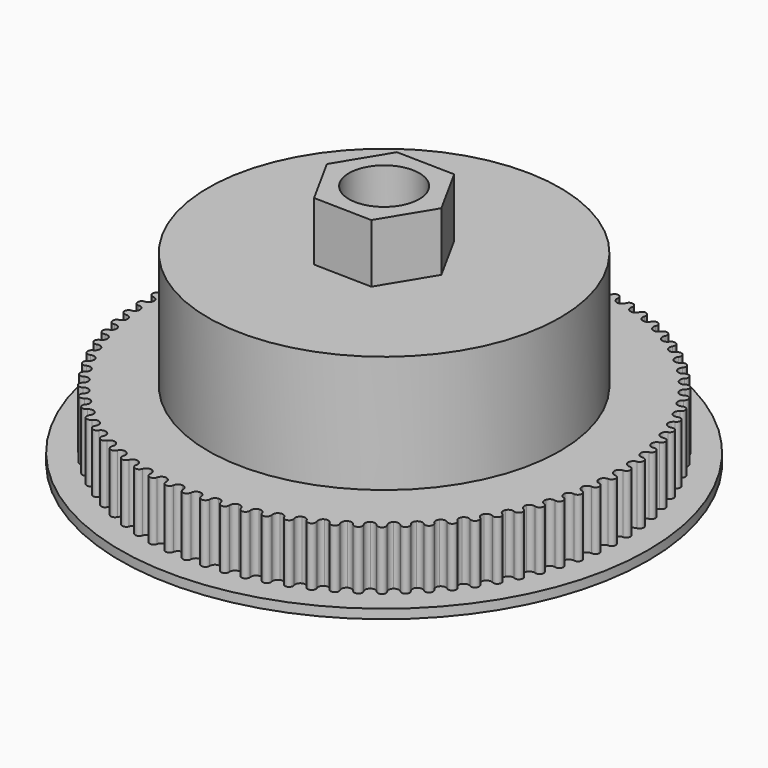
from build123d import *

# Parameters (mm, degrees)
F0_R      = 28.575
F1_DEPTH  = 1
F3_DEPTH  = 6.35
F4_R      = 19.05
F5_DEPTH  = 12.7
F7_DEPTH  = 6.35
F8_R      = 3.81
F9_DEPTH  = 30.734
F10_R     = 8.001
F11_DEPTH = 17.78


with BuildPart() as f1:
    # F0 (on Top) → F1 (new body)
    with BuildSketch(Plane.XY):
        Circle(F0_R)
    extrude(amount=F1_DEPTH)

    # F2 (on face) → F3 (join)
    with BuildSketch(Plane.XY.offset(1)):
        with BuildLine():
            ThreePointArc((0.554572, 25.441721), (0.384663, 25.063436), (0, 24.90851))
            ThreePointArc((0, 24.90851), (-0.384663, 25.063436), (-0.554572, 25.441721))
            ThreePointArc((-0.554572, 25.441721), (-1.016381, 25.868612), (-1.443272, 25.406804))
            ThreePointArc((-1.443272, 25.406804), (-1.582977, 25.016354), (-1.954299, 24.831725))
            ThreePointArc((-1.954299, 24.831725), (-2.349932, 24.955994), (-2.548997, 25.319781))
            ThreePointArc((-2.548997, 25.319781), (-3.042875, 25.709124), (-3.432218, 25.215245))
            ThreePointArc((-3.432218, 25.215245), (-3.540858, 24.815038), (-3.896549, 24.601845))
            ThreePointArc((-3.896549, 24.601845), (-4.300713, 24.694689), (-4.527706, 25.041737))
            ThreePointArc((-4.527706, 25.041737), (-5.05061, 25.39113), (-5.400003, 24.868226))
            ThreePointArc((-5.400003, 24.868226), (-5.476908, 24.460729), (-5.814776, 24.220286))
            ThreePointArc((-5.814776, 24.220286), (-6.224978, 24.281134), (-6.478501, 24.609302))
            ThreePointArc((-6.478501, 24.609302), (-7.027205, 24.916591), (-7.334495, 24.367887))
            ThreePointArc((-7.334495, 24.367887), (-7.379191, 23.955612), (-7.697153, 23.689401))
            ThreePointArc((-7.697153, 23.689401), (-8.110864, 23.717877), (-8.389354, 24.025142))
            ThreePointArc((-8.389354, 24.025142), (-8.960476, 24.288433), (-9.223767, 23.717311))
            ThreePointArc((-9.223767, 23.717311), (-9.235979, 23.3028), (-9.532074, 23.012463))
            ThreePointArc((-9.532074, 23.012463), (-9.946745, 23.008391), (-10.248483, 23.29286))
            ThreePointArc((-10.248483, 23.29286), (-10.838502, 23.510529), (-11.056172, 22.92051))
            ThreePointArc((-11.056172, 22.92051), (-11.035824, 22.506319), (-11.308227, 22.193645))
            ThreePointArc((-11.308227, 22.193645), (-11.7213, 22.157052), (-12.044427, 22.416969))
            ThreePointArc((-12.044427, 22.416969), (-12.649706, 22.587675), (-12.820412, 21.982396))
            ThreePointArc((-12.820412, 21.982396), (-12.76763, 21.571079), (-13.014661, 21.237996))
            ThreePointArc((-13.014661, 21.237996), (-13.423589, 21.169106), (-13.766113, 21.40287))
            ThreePointArc((-13.766113, 21.40287), (-14.38292, 21.52556), (-14.50561, 20.908754))
            ThreePointArc((-14.50561, 20.908754), (-14.420719, 20.502845), (-14.640855, 20.151408))
            ThreePointArc((-14.640855, 20.151408), (-15.043117, 20.050646), (-15.402927, 20.256815))
            ThreePointArc((-15.402927, 20.256815), (-16.027458, 20.330733), (-16.101376, 19.706202))
            ThreePointArc((-16.101376, 19.706202), (-15.984899, 19.308205), (-16.176783, 18.94058))
            ThreePointArc((-16.176783, 18.94058), (-16.5699, 18.808567), (-16.944776, 18.98587))
            ThreePointArc((-16.944776, 18.98587), (-17.573181, 19.010561), (-17.597872, 18.382155))
            ThreePointArc((-17.597872, 18.382155), (-17.450528, 17.994524), (-17.612976, 17.612976))
            ThreePointArc((-17.612976, 17.612976), (-17.994524, 17.450528), (-18.382155, 17.597872))
            ThreePointArc((-18.382155, 17.597872), (-19.010561, 17.573181), (-18.98587, 16.944776))
            ThreePointArc((-18.98587, 16.944776), (-18.808567, 16.5699), (-18.94058, 16.176783))
            ThreePointArc((-18.94058, 16.176783), (-19.308205, 15.984899), (-19.706202, 16.101376))
            ThreePointArc((-19.706202, 16.101376), (-20.330733, 16.027458), (-20.256815, 15.402927))
            ThreePointArc((-20.256815, 15.402927), (-20.050646, 15.043117), (-20.151408, 14.640855))
            ThreePointArc((-20.151408, 14.640855), (-20.502845, 14.420719), (-20.908754, 14.50561))
            ThreePointArc((-20.908754, 14.50561), (-21.52556, 14.38292), (-21.40287, 13.766113))
            ThreePointArc((-21.40287, 13.766113), (-21.169106, 13.423589), (-21.237996, 13.014661))
            ThreePointArc((-21.237996, 13.014661), (-21.571079, 12.76763), (-21.982396, 12.820412))
            ThreePointArc((-21.982396, 12.820412), (-22.587675, 12.649706), (-22.416969, 12.044427))
            ThreePointArc((-22.416969, 12.044427), (-22.157052, 11.7213), (-22.193645, 11.308227))
            ThreePointArc((-22.193645, 11.308227), (-22.506319, 11.035824), (-22.92051, 11.056172))
            ThreePointArc((-22.92051, 11.056172), (-23.510529, 10.838502), (-23.29286, 10.248483))
            ThreePointArc((-23.29286, 10.248483), (-23.008391, 9.946745), (-23.012463, 9.532074))
            ThreePointArc((-23.012463, 9.532074), (-23.3028, 9.235979), (-23.717311, 9.223767))
            ThreePointArc((-23.717311, 9.223767), (-24.288433, 8.960476), (-24.025142, 8.389354))
            ThreePointArc((-24.025142, 8.389354), (-23.717877, 8.110864), (-23.689401, 7.697153))
            ThreePointArc((-23.689401, 7.697153), (-23.955612, 7.379191), (-24.367887, 7.334495))
            ThreePointArc((-24.367887, 7.334495), (-24.916591, 7.027205), (-24.609302, 6.478501))
            ThreePointArc((-24.609302, 6.478501), (-24.281134, 6.224978), (-24.220286, 5.814776))
            ThreePointArc((-24.220286, 5.814776), (-24.460729, 5.476908), (-24.868226, 5.400003))
            ThreePointArc((-24.868226, 5.400003), (-25.39113, 5.05061), (-25.041737, 4.527706))
            ThreePointArc((-25.041737, 4.527706), (-24.694689, 4.300713), (-24.601845, 3.896549))
            ThreePointArc((-24.601845, 3.896549), (-24.815038, 3.540858), (-25.215245, 3.432218))
            ThreePointArc((-25.215245, 3.432218), (-25.709124, 3.042875), (-25.319781, 2.548997))
            ThreePointArc((-25.319781, 2.548997), (-24.955994, 2.349932), (-24.831725, 1.954299))
            ThreePointArc((-24.831725, 1.954299), (-25.016354, 1.582977), (-25.406804, 1.443272))
            ThreePointArc((-25.406804, 1.443272), (-25.868612, 1.016381), (-25.441721, 0.554572))
            ThreePointArc((-25.441721, 0.554572), (-25.063436, 0.384663), (-24.90851, 0))
            ThreePointArc((-24.90851, 0), (-25.063436, -0.384663), (-25.441721, -0.554572))
            ThreePointArc((-25.441721, -0.554572), (-25.868612, -1.016381), (-25.406804, -1.443272))
            ThreePointArc((-25.406804, -1.443272), (-25.016354, -1.582977), (-24.831725, -1.954299))
            ThreePointArc((-24.831725, -1.954299), (-24.955994, -2.349932), (-25.319781, -2.548997))
            ThreePointArc((-25.319781, -2.548997), (-25.709124, -3.042875), (-25.215245, -3.432218))
            ThreePointArc((-25.215245, -3.432218), (-24.815038, -3.540858), (-24.601845, -3.896549))
            ThreePointArc((-24.601845, -3.896549), (-24.694689, -4.300713), (-25.041737, -4.527706))
            ThreePointArc((-25.041737, -4.527706), (-25.39113, -5.05061), (-24.868226, -5.400003))
            ThreePointArc((-24.868226, -5.400003), (-24.460729, -5.476908), (-24.220286, -5.814776))
            ThreePointArc((-24.220286, -5.814776), (-24.281134, -6.224978), (-24.609302, -6.478501))
            ThreePointArc((-24.609302, -6.478501), (-24.916591, -7.027205), (-24.367887, -7.334495))
            ThreePointArc((-24.367887, -7.334495), (-23.955612, -7.379191), (-23.689401, -7.697153))
            ThreePointArc((-23.689401, -7.697153), (-23.717877, -8.110864), (-24.025142, -8.389354))
            ThreePointArc((-24.025142, -8.389354), (-24.288433, -8.960476), (-23.717311, -9.223767))
            ThreePointArc((-23.717311, -9.223767), (-23.3028, -9.235979), (-23.012463, -9.532074))
            ThreePointArc((-23.012463, -9.532074), (-23.008391, -9.946745), (-23.29286, -10.248483))
            ThreePointArc((-23.29286, -10.248483), (-23.510529, -10.838502), (-22.92051, -11.056172))
            ThreePointArc((-22.92051, -11.056172), (-22.506319, -11.035824), (-22.193645, -11.308227))
            ThreePointArc((-22.193645, -11.308227), (-22.157052, -11.7213), (-22.416969, -12.044427))
            ThreePointArc((-22.416969, -12.044427), (-22.587675, -12.649706), (-21.982396, -12.820412))
            ThreePointArc((-21.982396, -12.820412), (-21.571079, -12.76763), (-21.237996, -13.014661))
            ThreePointArc((-21.237996, -13.014661), (-21.169106, -13.423589), (-21.40287, -13.766113))
            ThreePointArc((-21.40287, -13.766113), (-21.52556, -14.38292), (-20.908754, -14.50561))
            ThreePointArc((-20.908754, -14.50561), (-20.502845, -14.420719), (-20.151408, -14.640855))
            ThreePointArc((-20.151408, -14.640855), (-20.050646, -15.043117), (-20.256815, -15.402927))
            ThreePointArc((-20.256815, -15.402927), (-20.330733, -16.027458), (-19.706202, -16.101376))
            ThreePointArc((-19.706202, -16.101376), (-19.308205, -15.984899), (-18.94058, -16.176783))
            ThreePointArc((-18.94058, -16.176783), (-18.808567, -16.5699), (-18.98587, -16.944776))
            ThreePointArc((-18.98587, -16.944776), (-19.010561, -17.573181), (-18.382155, -17.597872))
            ThreePointArc((-18.382155, -17.597872), (-17.994524, -17.450528), (-17.612976, -17.612976))
            ThreePointArc((-17.612976, -17.612976), (-17.450528, -17.994524), (-17.597872, -18.382155))
            ThreePointArc((-17.597872, -18.382155), (-17.573181, -19.010561), (-16.944776, -18.98587))
            ThreePointArc((-16.944776, -18.98587), (-16.5699, -18.808567), (-16.176783, -18.94058))
            ThreePointArc((-16.176783, -18.94058), (-15.984899, -19.308205), (-16.101376, -19.706202))
            ThreePointArc((-16.101376, -19.706202), (-16.027458, -20.330733), (-15.402927, -20.256815))
            ThreePointArc((-15.402927, -20.256815), (-15.043117, -20.050646), (-14.640855, -20.151408))
            ThreePointArc((-14.640855, -20.151408), (-14.420719, -20.502845), (-14.50561, -20.908754))
            ThreePointArc((-14.50561, -20.908754), (-14.38292, -21.52556), (-13.766113, -21.40287))
            ThreePointArc((-13.766113, -21.40287), (-13.423589, -21.169106), (-13.014661, -21.237996))
            ThreePointArc((-13.014661, -21.237996), (-12.76763, -21.571079), (-12.820412, -21.982396))
            ThreePointArc((-12.820412, -21.982396), (-12.649706, -22.587675), (-12.044427, -22.416969))
            ThreePointArc((-12.044427, -22.416969), (-11.7213, -22.157052), (-11.308227, -22.193645))
            ThreePointArc((-11.308227, -22.193645), (-11.035824, -22.506319), (-11.056172, -22.92051))
            ThreePointArc((-11.056172, -22.92051), (-10.838502, -23.510529), (-10.248483, -23.29286))
            ThreePointArc((-10.248483, -23.29286), (-9.946745, -23.008391), (-9.532074, -23.012463))
            ThreePointArc((-9.532074, -23.012463), (-9.235979, -23.3028), (-9.223767, -23.717311))
            ThreePointArc((-9.223767, -23.717311), (-8.960476, -24.288433), (-8.389354, -24.025142))
            ThreePointArc((-8.389354, -24.025142), (-8.110864, -23.717877), (-7.697153, -23.689401))
            ThreePointArc((-7.697153, -23.689401), (-7.379191, -23.955612), (-7.334495, -24.367887))
            ThreePointArc((-7.334495, -24.367887), (-7.027205, -24.916591), (-6.478501, -24.609302))
            ThreePointArc((-6.478501, -24.609302), (-6.224978, -24.281134), (-5.814776, -24.220286))
            ThreePointArc((-5.814776, -24.220286), (-5.476908, -24.460729), (-5.400003, -24.868226))
            ThreePointArc((-5.400003, -24.868226), (-5.05061, -25.39113), (-4.527706, -25.041737))
            ThreePointArc((-4.527706, -25.041737), (-4.300713, -24.694689), (-3.896549, -24.601845))
            ThreePointArc((-3.896549, -24.601845), (-3.540858, -24.815038), (-3.432218, -25.215245))
            ThreePointArc((-3.432218, -25.215245), (-3.042875, -25.709124), (-2.548997, -25.319781))
            ThreePointArc((-2.548997, -25.319781), (-2.349932, -24.955994), (-1.954299, -24.831725))
            ThreePointArc((-1.954299, -24.831725), (-1.582977, -25.016354), (-1.443272, -25.406804))
            ThreePointArc((-1.443272, -25.406804), (-1.016381, -25.868612), (-0.554572, -25.441721))
            ThreePointArc((-0.554572, -25.441721), (-0.384663, -25.063436), (0, -24.90851))
            ThreePointArc((0, -24.90851), (0.384663, -25.063436), (0.554572, -25.441721))
            ThreePointArc((0.554572, -25.441721), (1.016381, -25.868612), (1.443272, -25.406804))
            ThreePointArc((1.443272, -25.406804), (1.582977, -25.016354), (1.954299, -24.831725))
            ThreePointArc((1.954299, -24.831725), (2.349932, -24.955994), (2.548997, -25.319781))
            ThreePointArc((2.548997, -25.319781), (3.042875, -25.709124), (3.432218, -25.215245))
            ThreePointArc((3.432218, -25.215245), (3.540858, -24.815038), (3.896549, -24.601845))
            ThreePointArc((3.896549, -24.601845), (4.300713, -24.694689), (4.527706, -25.041737))
            ThreePointArc((4.527706, -25.041737), (5.05061, -25.39113), (5.400003, -24.868226))
            ThreePointArc((5.400003, -24.868226), (5.476908, -24.460729), (5.814776, -24.220286))
            ThreePointArc((5.814776, -24.220286), (6.224978, -24.281134), (6.478501, -24.609302))
            ThreePointArc((6.478501, -24.609302), (7.027205, -24.916591), (7.334495, -24.367887))
            ThreePointArc((7.334495, -24.367887), (7.379191, -23.955612), (7.697153, -23.689401))
            ThreePointArc((7.697153, -23.689401), (8.110864, -23.717877), (8.389354, -24.025142))
            ThreePointArc((8.389354, -24.025142), (8.960476, -24.288433), (9.223767, -23.717311))
            ThreePointArc((9.223767, -23.717311), (9.235979, -23.3028), (9.532074, -23.012463))
            ThreePointArc((9.532074, -23.012463), (9.946745, -23.008391), (10.248483, -23.29286))
            ThreePointArc((10.248483, -23.29286), (10.838502, -23.510529), (11.056172, -22.92051))
            ThreePointArc((11.056172, -22.92051), (11.035824, -22.506319), (11.308227, -22.193645))
            ThreePointArc((11.308227, -22.193645), (11.7213, -22.157052), (12.044427, -22.416969))
            ThreePointArc((12.044427, -22.416969), (12.649706, -22.587675), (12.820412, -21.982396))
            ThreePointArc((12.820412, -21.982396), (12.76763, -21.571079), (13.014661, -21.237996))
            ThreePointArc((13.014661, -21.237996), (13.423589, -21.169106), (13.766113, -21.40287))
            ThreePointArc((13.766113, -21.40287), (14.38292, -21.52556), (14.50561, -20.908754))
            ThreePointArc((14.50561, -20.908754), (14.420719, -20.502845), (14.640855, -20.151408))
            ThreePointArc((14.640855, -20.151408), (15.043117, -20.050646), (15.402927, -20.256815))
            ThreePointArc((15.402927, -20.256815), (16.027458, -20.330733), (16.101376, -19.706202))
            ThreePointArc((16.101376, -19.706202), (15.984899, -19.308205), (16.176783, -18.94058))
            ThreePointArc((16.176783, -18.94058), (16.5699, -18.808567), (16.944776, -18.98587))
            ThreePointArc((16.944776, -18.98587), (17.573181, -19.010561), (17.597872, -18.382155))
            ThreePointArc((17.597872, -18.382155), (17.450528, -17.994524), (17.612976, -17.612976))
            ThreePointArc((17.612976, -17.612976), (17.994524, -17.450528), (18.382155, -17.597872))
            ThreePointArc((18.382155, -17.597872), (19.010561, -17.573181), (18.98587, -16.944776))
            ThreePointArc((18.98587, -16.944776), (18.808567, -16.5699), (18.94058, -16.176783))
            ThreePointArc((18.94058, -16.176783), (19.308205, -15.984899), (19.706202, -16.101376))
            ThreePointArc((19.706202, -16.101376), (20.330733, -16.027458), (20.256815, -15.402927))
            ThreePointArc((20.256815, -15.402927), (20.050646, -15.043117), (20.151408, -14.640855))
            ThreePointArc((20.151408, -14.640855), (20.502845, -14.420719), (20.908754, -14.50561))
            ThreePointArc((20.908754, -14.50561), (21.52556, -14.38292), (21.40287, -13.766113))
            ThreePointArc((21.40287, -13.766113), (21.169106, -13.423589), (21.237996, -13.014661))
            ThreePointArc((21.237996, -13.014661), (21.571079, -12.76763), (21.982396, -12.820412))
            ThreePointArc((21.982396, -12.820412), (22.587675, -12.649706), (22.416969, -12.044427))
            ThreePointArc((22.416969, -12.044427), (22.157052, -11.7213), (22.193645, -11.308227))
            ThreePointArc((22.193645, -11.308227), (22.506319, -11.035824), (22.92051, -11.056172))
            ThreePointArc((22.92051, -11.056172), (23.510529, -10.838502), (23.29286, -10.248483))
            ThreePointArc((23.29286, -10.248483), (23.008391, -9.946745), (23.012463, -9.532074))
            ThreePointArc((23.012463, -9.532074), (23.3028, -9.235979), (23.717311, -9.223767))
            ThreePointArc((23.717311, -9.223767), (24.288433, -8.960476), (24.025142, -8.389354))
            ThreePointArc((24.025142, -8.389354), (23.717877, -8.110864), (23.689401, -7.697153))
            ThreePointArc((23.689401, -7.697153), (23.955612, -7.379191), (24.367887, -7.334495))
            ThreePointArc((24.367887, -7.334495), (24.916591, -7.027205), (24.609302, -6.478501))
            ThreePointArc((24.609302, -6.478501), (24.281134, -6.224978), (24.220286, -5.814776))
            ThreePointArc((24.220286, -5.814776), (24.460729, -5.476908), (24.868226, -5.400003))
            ThreePointArc((24.868226, -5.400003), (25.39113, -5.05061), (25.041737, -4.527706))
            ThreePointArc((25.041737, -4.527706), (24.694689, -4.300713), (24.601845, -3.896549))
            ThreePointArc((24.601845, -3.896549), (24.815038, -3.540858), (25.215245, -3.432218))
            ThreePointArc((25.215245, -3.432218), (25.709124, -3.042875), (25.319781, -2.548997))
            ThreePointArc((25.319781, -2.548997), (24.955994, -2.349932), (24.831725, -1.954299))
            ThreePointArc((24.831725, -1.954299), (25.016354, -1.582977), (25.406804, -1.443272))
            ThreePointArc((25.406804, -1.443272), (25.868612, -1.016381), (25.441721, -0.554572))
            ThreePointArc((25.441721, -0.554572), (25.063436, -0.384663), (24.90851, 0))
            ThreePointArc((24.90851, 0), (25.063436, 0.384663), (25.441721, 0.554572))
            ThreePointArc((25.441721, 0.554572), (25.868612, 1.016381), (25.406804, 1.443272))
            ThreePointArc((25.406804, 1.443272), (25.016354, 1.582977), (24.831725, 1.954299))
            ThreePointArc((24.831725, 1.954299), (24.955994, 2.349932), (25.319781, 2.548997))
            ThreePointArc((25.319781, 2.548997), (25.709124, 3.042875), (25.215245, 3.432218))
            ThreePointArc((25.215245, 3.432218), (24.815038, 3.540858), (24.601845, 3.896549))
            ThreePointArc((24.601845, 3.896549), (24.694689, 4.300713), (25.041737, 4.527706))
            ThreePointArc((25.041737, 4.527706), (25.39113, 5.05061), (24.868226, 5.400003))
            ThreePointArc((24.868226, 5.400003), (24.460729, 5.476908), (24.220286, 5.814776))
            ThreePointArc((24.220286, 5.814776), (24.281134, 6.224978), (24.609302, 6.478501))
            ThreePointArc((24.609302, 6.478501), (24.916591, 7.027205), (24.367887, 7.334495))
            ThreePointArc((24.367887, 7.334495), (23.955612, 7.379191), (23.689401, 7.697153))
            ThreePointArc((23.689401, 7.697153), (23.717877, 8.110864), (24.025142, 8.389354))
            ThreePointArc((24.025142, 8.389354), (24.288433, 8.960476), (23.717311, 9.223767))
            ThreePointArc((23.717311, 9.223767), (23.3028, 9.235979), (23.012463, 9.532074))
            ThreePointArc((23.012463, 9.532074), (23.008391, 9.946745), (23.29286, 10.248483))
            ThreePointArc((23.29286, 10.248483), (23.510529, 10.838502), (22.92051, 11.056172))
            ThreePointArc((22.92051, 11.056172), (22.506319, 11.035824), (22.193645, 11.308227))
            ThreePointArc((22.193645, 11.308227), (22.157052, 11.7213), (22.416969, 12.044427))
            ThreePointArc((22.416969, 12.044427), (22.587675, 12.649706), (21.982396, 12.820412))
            ThreePointArc((21.982396, 12.820412), (21.571079, 12.76763), (21.237996, 13.014661))
            ThreePointArc((21.237996, 13.014661), (21.169106, 13.423589), (21.40287, 13.766113))
            ThreePointArc((21.40287, 13.766113), (21.52556, 14.38292), (20.908754, 14.50561))
            ThreePointArc((20.908754, 14.50561), (20.502845, 14.420719), (20.151408, 14.640855))
            ThreePointArc((20.151408, 14.640855), (20.050646, 15.043117), (20.256815, 15.402927))
            ThreePointArc((20.256815, 15.402927), (20.330733, 16.027458), (19.706202, 16.101376))
            ThreePointArc((19.706202, 16.101376), (19.308205, 15.984899), (18.94058, 16.176783))
            ThreePointArc((18.94058, 16.176783), (18.808567, 16.5699), (18.98587, 16.944776))
            ThreePointArc((18.98587, 16.944776), (19.010561, 17.573181), (18.382155, 17.597872))
            ThreePointArc((18.382155, 17.597872), (17.994524, 17.450528), (17.612976, 17.612976))
            ThreePointArc((17.612976, 17.612976), (17.450528, 17.994524), (17.597872, 18.382155))
            ThreePointArc((17.597872, 18.382155), (17.573181, 19.010561), (16.944776, 18.98587))
            ThreePointArc((16.944776, 18.98587), (16.5699, 18.808567), (16.176783, 18.94058))
            ThreePointArc((16.176783, 18.94058), (15.984899, 19.308205), (16.101376, 19.706202))
            ThreePointArc((16.101376, 19.706202), (16.027458, 20.330733), (15.402927, 20.256815))
            ThreePointArc((15.402927, 20.256815), (15.043117, 20.050646), (14.640855, 20.151408))
            ThreePointArc((14.640855, 20.151408), (14.420719, 20.502845), (14.50561, 20.908754))
            ThreePointArc((14.50561, 20.908754), (14.38292, 21.52556), (13.766113, 21.40287))
            ThreePointArc((13.766113, 21.40287), (13.423589, 21.169106), (13.014661, 21.237996))
            ThreePointArc((13.014661, 21.237996), (12.76763, 21.571079), (12.820412, 21.982396))
            ThreePointArc((12.820412, 21.982396), (12.649706, 22.587675), (12.044427, 22.416969))
            ThreePointArc((12.044427, 22.416969), (11.7213, 22.157052), (11.308227, 22.193645))
            ThreePointArc((11.308227, 22.193645), (11.035824, 22.506319), (11.056172, 22.92051))
            ThreePointArc((11.056172, 22.92051), (10.838502, 23.510529), (10.248483, 23.29286))
            ThreePointArc((10.248483, 23.29286), (9.946745, 23.008391), (9.532074, 23.012463))
            ThreePointArc((9.532074, 23.012463), (9.235979, 23.3028), (9.223767, 23.717311))
            ThreePointArc((9.223767, 23.717311), (8.960476, 24.288433), (8.389354, 24.025142))
            ThreePointArc((8.389354, 24.025142), (8.110864, 23.717877), (7.697153, 23.689401))
            ThreePointArc((7.697153, 23.689401), (7.379191, 23.955612), (7.334495, 24.367887))
            ThreePointArc((7.334495, 24.367887), (7.027205, 24.916591), (6.478501, 24.609302))
            ThreePointArc((6.478501, 24.609302), (6.224978, 24.281134), (5.814776, 24.220286))
            ThreePointArc((5.814776, 24.220286), (5.476908, 24.460729), (5.400003, 24.868226))
            ThreePointArc((5.400003, 24.868226), (5.05061, 25.39113), (4.527706, 25.041737))
            ThreePointArc((4.527706, 25.041737), (4.300713, 24.694689), (3.896549, 24.601845))
            ThreePointArc((3.896549, 24.601845), (3.540858, 24.815038), (3.432218, 25.215245))
            ThreePointArc((3.432218, 25.215245), (3.042875, 25.709124), (2.548997, 25.319781))
            ThreePointArc((2.548997, 25.319781), (2.349932, 24.955994), (1.954299, 24.831725))
            ThreePointArc((1.954299, 24.831725), (1.582977, 25.016354), (1.443272, 25.406804))
            ThreePointArc((1.443272, 25.406804), (1.016381, 25.868612), (0.554572, 25.441721))
        make_face()
    extrude(amount=F3_DEPTH)

    # F4 (on face) → F5 (join)
    with BuildSketch(Plane.XY.offset(7.35)):
        Circle(F4_R)
    extrude(amount=F5_DEPTH)

    # F6 (on face) → F7 (join)
    with BuildSketch(Plane.XY.offset(20.05)):
        Polygon((6.30429, -0.138887), (3.272425, 5.390232), (-3.031865, 5.529119), (-6.30429, 0.138887), (-3.272425, -5.390232), (3.031865, -5.529119), align=None)
    extrude(amount=F7_DEPTH)

    # F8 (on face) → F9 (cut)
    with BuildSketch(Plane.XY.offset(26.4)):
        Circle(F8_R)
    extrude(amount=-F9_DEPTH, mode=Mode.SUBTRACT)

    # F10 (on face) → F11 (cut)
    with BuildSketch(Plane(origin=(0, 0, 0), x_dir=(1, 0, 0), z_dir=(0, 0, -1))):
        Circle(F10_R)
    extrude(amount=-F11_DEPTH, mode=Mode.SUBTRACT)


solid = f1.part
